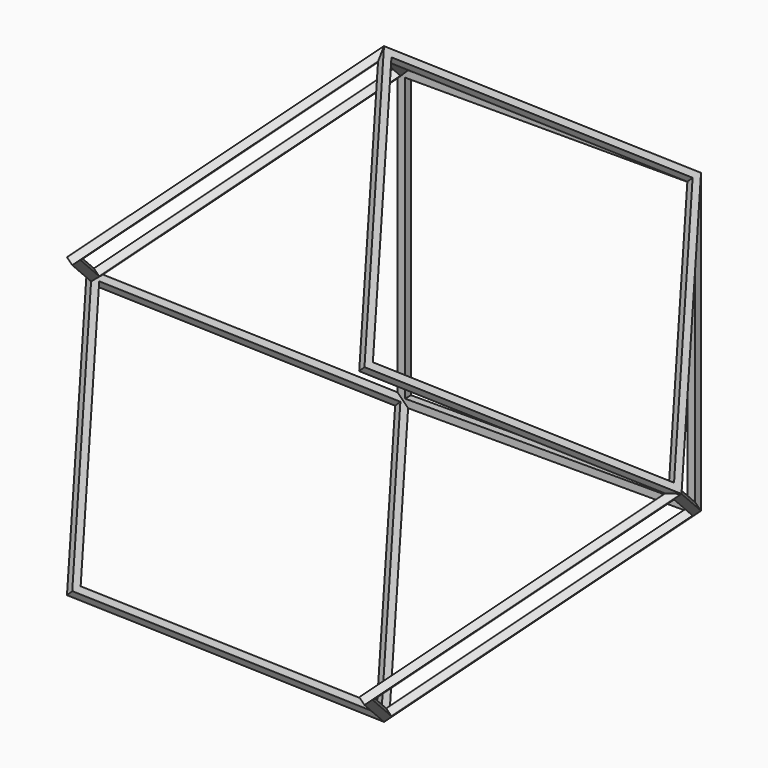
from build123d import *

# Parameters (mm, degrees)
F0_W      = 101.6
F0_H      = 101.6
F0_W_2    = 96.52
F0_H_2    = 96.52
F1_DEPTH  = 2.54
F4_DEPTH  = 2.54
F7_DEPTH  = 2.54
F10_DEPTH = 2.54
F13_DEPTH = 2.54


with BuildPart() as f1:
    # F0 (on Front) → F1 (new body)
    with BuildSketch(Plane.XZ):
        Rectangle(F0_W, F0_H)
        Rectangle(F0_W_2, F0_H_2, mode=Mode.SUBTRACT)
    extrude(amount=F1_DEPTH)


with BuildPart() as f4:
    # F3 (on face) → F4 (new body)
    with BuildSketch(Plane(origin=(50.8, 0, 50.8), x_dir=(0.7071067812, 0, -0.7071067812), z_dir=(0.7071067812, 0, 0.7071067812))):
        Polygon((71.8420489686, -71.8420489686), (0, 0), (-71.8420489686, -71.8420489686), (0, -143.6840979371), align=None)
        Polygon((0, -140.0919954887), (-68.2499465201, -71.8420489686), (0, -3.5921024484), (68.2499465201, -71.8420489686), align=None, mode=Mode.SUBTRACT)
    extrude(amount=-F4_DEPTH)


with BuildPart() as f7:
    # F6 (on 3pt) → F7 (new body)
    with BuildSketch(Plane(origin=(-50.8, 0, 50.8), x_dir=(0, 1, 0), z_dir=(0.7071067812, 0, -0.7071067812))):
        Polygon((0, 0), (-71.8420489686, 71.8420489686), (-143.6840979371, 0), (-71.8420489686, -71.8420489686), align=None)
        Polygon((-71.8420489686, -68.2499465201), (-140.0919954887, 0), (-71.8420489686, 68.2499465201), (-3.5921024484, 0), align=None, mode=Mode.SUBTRACT)
    extrude(amount=F7_DEPTH)


with BuildPart() as f10:
    # F9 (on 3pt) → F10 (new body)
    with BuildSketch(Plane(origin=(50.8, 0, -50.8), x_dir=(0.7071067812, 0, 0.7071067812), z_dir=(0.7071067812, 0, -0.7071067812))):
        Polygon((71.8420489686, 71.8420489686), (0, 143.6840979371), (-71.8420489686, 71.8420489686), (0, 0), align=None)
        Polygon((0, 3.5921024484), (-68.2499465201, 71.8420489686), (0, 140.0919954887), (68.2499465201, 71.8420489686), align=None, mode=Mode.SUBTRACT)
    extrude(amount=-F10_DEPTH)


with BuildPart() as f13:
    # F12 (on 3pt) → F13 (new body)
    with BuildSketch(Plane(origin=(-50.8, 0, -50.8), x_dir=(0.7071067812, 0, -0.7071067812), z_dir=(-0.7071067812, 0, -0.7071067812))):
        Polygon((71.8420489686, 71.8420489686), (0, 143.6840979371), (-71.8420489686, 71.8420489686), (0, 0), align=None)
        Polygon((0, 3.5921024484), (-68.2499465201, 71.8420489686), (0, 140.0919954887), (68.2499465201, 71.8420489686), align=None, mode=Mode.SUBTRACT)
    extrude(amount=-F13_DEPTH)


solid = Compound([f1.part, f4.part, f7.part, f10.part, f13.part])
